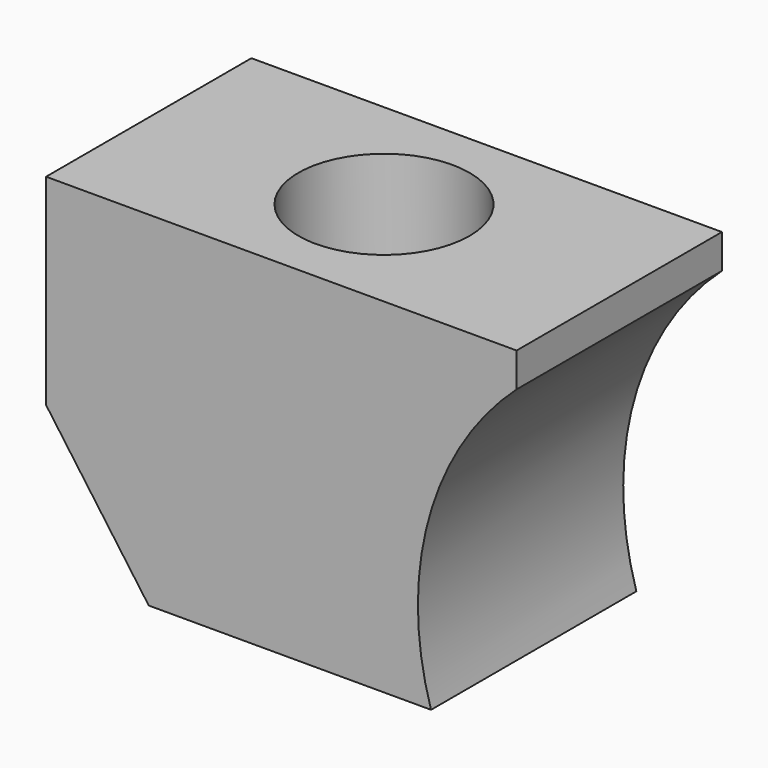
from build123d import *

# Parameters (mm, degrees)
F1_DEPTH       = 15
F3_D           = 7.5
F3_CBORE_D     = 10
F3_CBORE_DEPTH = 44


with BuildPart() as f1:
    # F0 (on Front) → F1 (new body)
    with BuildSketch(Plane.XZ):
        with BuildLine():
            Line((21.5, 11.75), (-6, 11.75))
            Line((-6, 11.75), (-6, 0))
            Line((-6, 0), (0, -8.364348))
            Line((0, -8.364348), (16.5, -8.364348))
            ThreePointArc((16.5, -8.364348), (16.362362, 1.420878), (21.5, 9.75))
            Line((21.5, 9.75), (21.5, 11.75))
        make_face()
    extrude(amount=F1_DEPTH)

    # F3 (through all)
    with Locations(Plane.XY.offset(11.75)):
        with Locations((7.75, -7.5)):
            CounterBoreHole(F3_D / 2, F3_CBORE_D / 2, F3_CBORE_DEPTH)


solid = f1.part
